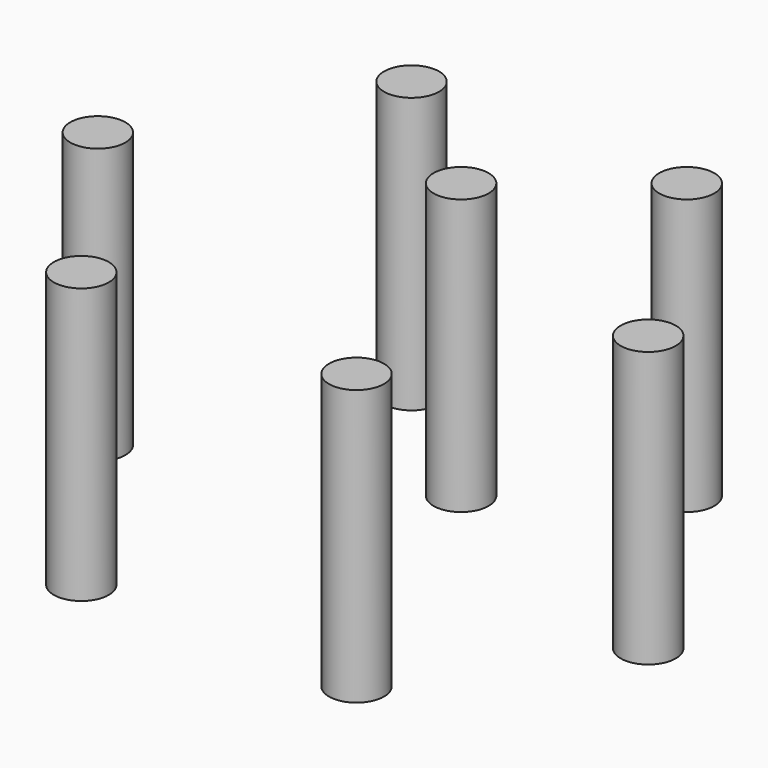
from build123d import *

# Parameters (mm, degrees)
CYLINDER011_R     = 1
CYLINDER011_DEPTH = 10
CYLINDER010_R     = 1
CYLINDER010_DEPTH = 10
CYLINDER009_R     = 1
CYLINDER009_DEPTH = 10
CYLINDER008_R     = 1
CYLINDER008_DEPTH = 10
CYLINDER006_R     = 1
CYLINDER006_DEPTH = 10
CYLINDER007_R     = 1
CYLINDER007_DEPTH = 10
CYLINDER012_R     = 1
CYLINDER012_DEPTH = 10


with BuildPart() as threadedhole007:
    # Cylinder011 → Cylinder011 (new body)
    with BuildSketch(Plane(origin=(5, 8, 0), x_dir=(1, 0, 0), z_dir=(0, 0, 1))):
        Circle(CYLINDER011_R)
    extrude(amount=CYLINDER011_DEPTH)


with BuildPart() as threadedhole006:
    # Cylinder010 → Cylinder010 (new body)
    with BuildSketch(Plane(origin=(-5, 8, 0), x_dir=(1, 0, 0), z_dir=(0, 0, 1))):
        Circle(CYLINDER010_R)
    extrude(amount=CYLINDER010_DEPTH)


with BuildPart() as threadedhole005:
    # Cylinder009 → Cylinder009 (new body)
    with BuildSketch(Plane(origin=(-5, -7, 0), x_dir=(1, 0, 0), z_dir=(0, 0, 1))):
        Circle(CYLINDER009_R)
    extrude(amount=CYLINDER009_DEPTH)


with BuildPart() as threadedhole004:
    # Cylinder008 → Cylinder008 (new body)
    with BuildSketch(Plane(origin=(5, -7, 0), x_dir=(1, 0, 0), z_dir=(0, 0, 1))):
        Circle(CYLINDER008_R)
    extrude(amount=CYLINDER008_DEPTH)


with BuildPart() as threadedhole002:
    # Cylinder006 → Cylinder006 (new body)
    with BuildSketch(Plane(origin=(-10, 0, 0), x_dir=(1, 0, 0), z_dir=(0, 0, 1))):
        Circle(CYLINDER006_R)
    extrude(amount=CYLINDER006_DEPTH)


with BuildPart() as threadedhole003:
    # Cylinder007 → Cylinder007 (new body)
    with BuildSketch(Plane(origin=(10, 0, 0), x_dir=(1, 0, 0), z_dir=(0, 0, 1))):
        Circle(CYLINDER007_R)
    extrude(amount=CYLINDER007_DEPTH)


with BuildPart() as fusion005:
    # Cylinder012 → Cylinder012 (new body)
    with BuildSketch(Plane(origin=(0, 4, 0), x_dir=(1, 0, 0), z_dir=(0, 0, 1))):
        Circle(CYLINDER012_R)
    extrude(amount=CYLINDER012_DEPTH)

    # Fusion005: union ThreadedHole007, ThreadedHole006, ThreadedHole005, ThreadedHole004, ThreadedHole002, ThreadedHole003
    add(threadedhole007.part)
    add(threadedhole006.part)
    add(threadedhole005.part)
    add(threadedhole004.part)
    add(threadedhole002.part)
    add(threadedhole003.part)


solid = fusion005.part
